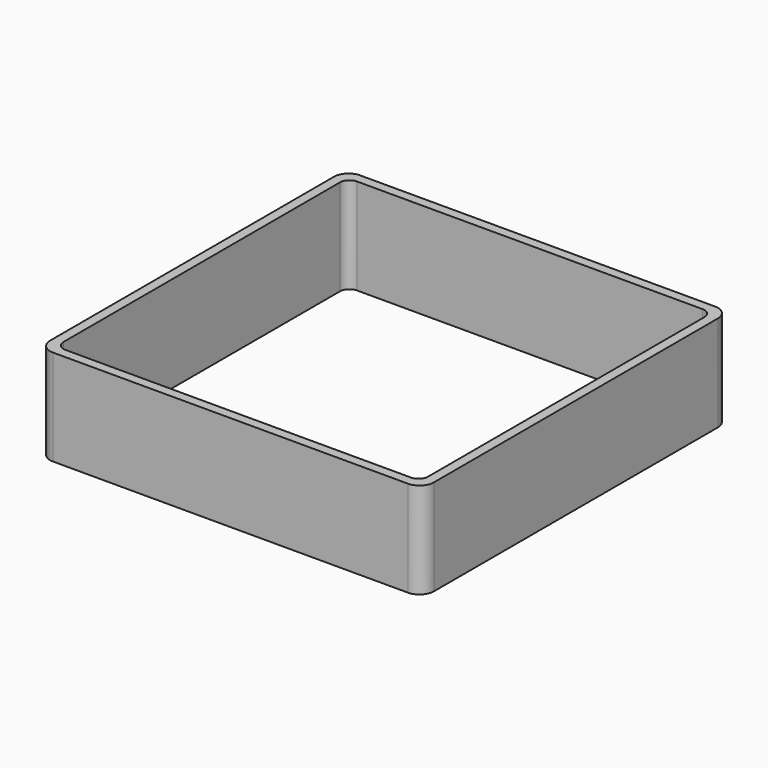
from build123d import *

# Parameters (mm, degrees)
EXTRUDE_DEPTH = 50


with BuildPart() as part:
    # Sketch → Extrude (new body)
    with BuildSketch(Plane.XY):
        with BuildLine():
            Line((-92.5, 100), (92.5, 100))
            ThreePointArc((100, 92.5), (97.803301, 97.803301), (92.5, 100))
            Line((100, 92.5), (100, -92.5))
            ThreePointArc((92.5, -100), (97.803301, -97.803301), (100, -92.5))
            Line((92.5, -100), (-92.5, -100))
            ThreePointArc((-100, -92.5), (-97.803301, -97.803301), (-92.5, -100))
            Line((-100, -92.5), (-100, 92.5))
            ThreePointArc((-92.5, 100), (-97.803301, 97.803301), (-100, 92.5))
        make_face()
        with BuildLine():
            Line((-90, 95), (90, 95))
            ThreePointArc((95, 90), (93.535534, 93.535534), (90, 95))
            Line((95, 90), (95, -90))
            ThreePointArc((90, -95), (93.535534, -93.535534), (95, -90))
            Line((90, -95), (-90, -95))
            ThreePointArc((-95, -90), (-93.535534, -93.535534), (-90, -95))
            Line((-95, -90), (-95, 90))
            ThreePointArc((-90, 95), (-93.535534, 93.535534), (-95, 90))
        make_face(mode=Mode.SUBTRACT)
    extrude(amount=EXTRUDE_DEPTH)


solid = part.part
